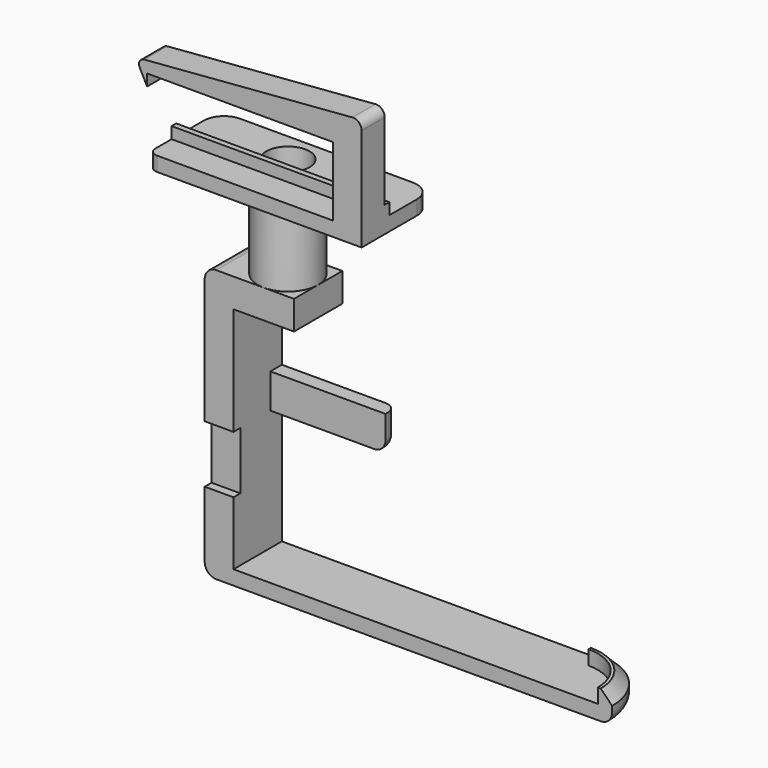
from build123d import *

# Parameters (mm, degrees)
PAD_DEPTH       = 5
SKETCH001_W     = 10
SKETCH001_H     = 21
PAD001_DEPTH    = 54
PAD002_DEPTH    = 5
SKETCH004_W     = 5
SKETCH004_H     = 12
PAD003_DEPTH    = 40
SKETCH005_W     = 10
SKETCH005_H     = 21
PAD004_DEPTH    = 25.5
PAD005_DEPTH    = 10
SKETCH007_R     = 2.5
POCKET_DEPTH    = 10
SKETCH008_R     = 10.5
SKETCH008_R_2   = 7.5
PAD006_DEPTH    = 30
CHAMFER_SIZE    = 4
FILLET_R        = 4
FILLET001_R     = 4
FILLET002_R     = 4
SKETCH009_W     = 3
SKETCH009_H     = 20
POCKET001_DEPTH = 10
SKETCH010_R     = 7.5
PAD007_DEPTH    = 5
FILLET003_R     = 4
FILLET004_R     = 4
PAD008_DEPTH    = 10
SKETCH012_W     = 74
SKETCH012_H     = 4
SKETCH012_W_2   = 10
SKETCH012_H_2   = 8
PAD009_DEPTH    = 2
FILLET005_R     = 7
FILLET006_R     = 7
FILLET007_R     = 3
FILLET008_R     = 2
FILLET009_R     = 3
FILLET010_R     = 1
FILLET011_R     = 1
FILLET012_R     = 1


with BuildPart() as part:
    # Sketch → Pad (new body)
    with BuildSketch(Plane.XY):
        with BuildLine():
            Line((0, 21), (0, 0))
            Line((0, 0), (10, 0))
            Line((136.5, 0), (10, 0))
            Line((141.5, 0), (136.5, 0))
            ThreePointArc((141.5, 0), (135.349242, 14.849242), (120.5, 21))
            Line((10, 21), (120.5, 21))
            Line((0, 21), (10, 21))
        make_face()
    extrude(amount=PAD_DEPTH)

    # Sketch001 (on Face4 of Pad) → Pad001 (join)
    with BuildSketch(Plane.XY.offset(5)):
        with Locations((5, 10.5)):
            Rectangle(SKETCH001_W, SKETCH001_H)
    extrude(amount=PAD001_DEPTH)

    # Sketch002 (on Face3 of Pad001) → Pad002 (join)
    with BuildSketch(Plane.XY.offset(5)):
        with BuildLine():
            ThreePointArc((136.5, 0), (131.813708, 11.313708), (120.5, 16))
            Line((120.5, 16), (120.5, 21))
            ThreePointArc((141.5, 0), (135.349242, 14.849242), (120.5, 21))
            Line((136.5, 0), (141.5, 0))
        make_face()
    extrude(amount=PAD002_DEPTH)

    # Sketch004 (on Face5 of Pad002) → Pad003 (join)
    with BuildSketch(Plane.YZ.offset(10)):
        with Locations((18.5, 53)):
            Rectangle(SKETCH004_W, SKETCH004_H)
    extrude(amount=PAD003_DEPTH)

    # Sketch005 (on Face14 of Pad003) → Pad004 (join)
    with BuildSketch(Plane.XY.offset(59)):
        with Locations((5, 10.5)):
            Rectangle(SKETCH005_W, SKETCH005_H)
    extrude(amount=PAD004_DEPTH)

    # Sketch006 (on Face1 of Pad004) → Pad005 (join)
    with BuildSketch(Plane.XY.offset(84.5)):
        Polygon((0, 0), (31, 0), (31, 21), (10, 21), (0, 21), align=None)
    extrude(amount=PAD005_DEPTH)

    # Sketch007 (on Face11 of Pad005) → Pocket (cut)
    with BuildSketch(Plane.XY.offset(94.5)):
        with Locations((20.5, 10.5)):
            Circle(SKETCH007_R)
    extrude(amount=-POCKET_DEPTH, mode=Mode.SUBTRACT)

    # Sketch008 (on Face10 of Pocket) → Pad006 (join)
    with BuildSketch(Plane.XY.offset(94.5)):
        with Locations((20.5, 10.5)):
            Circle(SKETCH008_R)
        with Locations((20.5, 10.5)):
            Circle(SKETCH008_R_2, mode=Mode.SUBTRACT)
    extrude(amount=PAD006_DEPTH)

    # Chamfer
    chamfer_edges = [part.edges().sort_by_distance(p)[0] for p in [
        (135.349242, 14.849242, 10),
    ]]
    chamfer(chamfer_edges, length=CHAMFER_SIZE)

    # Fillet
    fillet_edges = [part.edges().sort_by_distance(p)[0] for p in [
        (50, 21, 53),
    ]]
    fillet(fillet_edges, radius=FILLET_R)

    # Fillet001
    fillet001_edges = [part.edges().sort_by_distance(p)[0] for p in [
        (0, 10.5, 0),
    ]]
    fillet(fillet001_edges, radius=FILLET001_R)

    # Fillet002
    fillet002_edges = [part.edges().sort_by_distance(p)[0] for p in [
        (0, 21, 49.25),
    ]]
    fillet(fillet002_edges, radius=FILLET002_R)

    # Sketch009 (on Face6 of Fillet002) → Pocket001 (cut)
    with BuildSketch(Plane.YZ.offset(10)):
        with Locations((1.5, 37)):
            Rectangle(SKETCH009_W, SKETCH009_H)
    extrude(amount=-POCKET001_DEPTH, mode=Mode.SUBTRACT)

    # Sketch010 (on Face33 of Pocket001) → Pad007 (join)
    with BuildSketch(Plane.XY.offset(124.5)):
        Polygon((-11.5, -10), (52.5, -10), (62.5, -10), (62.5, 21), (52.5, 21), (-11.5, 21), align=None)
        with Locations((20.5, 10.5)):
            Circle(SKETCH010_R, mode=Mode.SUBTRACT)
    extrude(amount=PAD007_DEPTH)

    # Fillet003
    fillet003_edges = [part.edges().sort_by_distance(p)[0] for p in [
        (0, 8.5, 94.5),
    ]]
    fillet(fillet003_edges, radius=FILLET003_R)

    # Fillet004
    fillet004_edges = [part.edges().sort_by_distance(p)[0] for p in [
        (28, 21, 47),
    ]]
    fillet(fillet004_edges, radius=FILLET004_R)

    # Sketch011 (on Face43 of Fillet004) → Pad008 (join)
    with BuildSketch(Plane.XZ.offset(10)):
        Polygon((62.5, 163.5), (-16, 157.177852), (-12, 149.5), (-12, 153.5), (52.5, 153.5), (52.5, 129.5), (62.5, 129.5), (62.5, 153.5), align=None)
    extrude(amount=-PAD008_DEPTH)

    # Sketch012 (on Face45 of Pad008) → Pad009 (join)
    with BuildSketch(Plane(origin=(0, 0, 0), x_dir=(-1, 0, 0), z_dir=(0, 1, 0))):
        with Locations((-25.5, 131.5)):
            Rectangle(SKETCH012_W, SKETCH012_H)
        with Locations((-20.25, 153.5)):
            Rectangle(SKETCH012_W_2, SKETCH012_H_2)
    extrude(amount=PAD009_DEPTH)

    # Fillet005
    fillet005_edges = [part.edges().sort_by_distance(p)[0] for p in [
        (-11.5, 21, 127),
    ]]
    fillet(fillet005_edges, radius=FILLET005_R)

    # Fillet006
    fillet006_edges = [part.edges().sort_by_distance(p)[0] for p in [
        (62.5, 21, 127),
    ]]
    fillet(fillet006_edges, radius=FILLET006_R)

    # Fillet007
    fillet007_edges = [part.edges().sort_by_distance(p)[0] for p in [
        (62.5, -5, 163.5),
    ]]
    fillet(fillet007_edges, radius=FILLET007_R)

    # Fillet008
    fillet008_edges = [part.edges().sort_by_distance(p)[0] for p in [
        (-16, -5, 157.177852),
    ]]
    fillet(fillet008_edges, radius=FILLET008_R)

    # Fillet009
    fillet009_edges = [part.edges().sort_by_distance(p)[0] for p in [
        (-11.5, -10, 127),
    ]]
    fillet(fillet009_edges, radius=FILLET009_R)

    # Fillet010
    fillet010_edges = [part.edges().sort_by_distance(p)[0] for p in [
        (20.25, 2, 157.5),
    ]]
    fillet(fillet010_edges, radius=FILLET010_R)

    # Fillet011
    fillet011_edges = [part.edges().sort_by_distance(p)[0] for p in [
        (15.25, 2, 153),
    ]]
    fillet(fillet011_edges, radius=FILLET011_R)

    # Fillet012
    fillet012_edges = [part.edges().sort_by_distance(p)[0] for p in [
        (25.25, 2, 153),
    ]]
    fillet(fillet012_edges, radius=FILLET012_R)


solid = part.part
